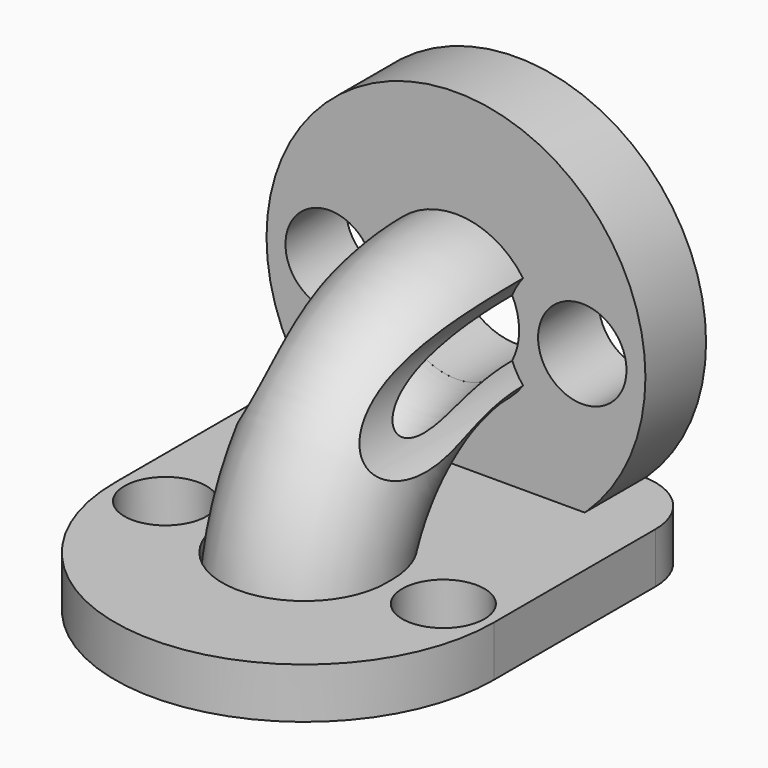
from build123d import *

# Parameters (mm, degrees)
F0_R      = 7.5
F0_R_2    = 2.5
F1_DEPTH  = 3
F2_R      = 1.75
F3_DEPTH  = 25
F5_R      = 3.25
F5_R_2    = 2.5
F8_DEPTH  = 2
F9_R      = 2.5
F10_R     = 1.625
F11_DEPTH = 2
F12_R     = 3
F13_DEPTH = 25


with BuildPart() as f1:
    # F0 (on Front) → F1 (new body)
    with BuildSketch(Plane.XZ):
        Circle(F0_R)
        Circle(F0_R_2, mode=Mode.SUBTRACT)
    extrude(amount=-F1_DEPTH)

    # F2 (on face) → F3 (cut)
    with BuildSketch(Plane.XZ):
        with Locations((5, 0)):
            Circle(F2_R)
        with Locations((-5, 0)):
            Circle(F2_R)
    extrude(amount=-F3_DEPTH, mode=Mode.SUBTRACT)


with BuildPart() as f6:
    # F6: sweep along a path in F4
    with BuildLine(Plane.YZ) as f6_path:
        ThreePointArc((0, 0), (-5.3033008589, -2.1966991411), (-7.5, -7.5))
    # F5 (on Front) → F6 (sweep)
    with BuildSketch(Plane.XZ):
        Circle(F5_R)
        Circle(F5_R_2, mode=Mode.SUBTRACT)
    sweep(path=f6_path.line)

    # F12 (on face) → F13 (cut)
    with BuildSketch(Plane.XZ):
        with Locations((-5, 0)):
            Circle(F12_R)
        with Locations((5, 0)):
            Circle(F12_R)
    extrude(amount=F13_DEPTH, mode=Mode.SUBTRACT)


with BuildPart() as f8:
    # F7 (on face) → F8 (new body)
    with BuildSketch(Plane(origin=(0, 0, -7.5), x_dir=(1, 0, 0), z_dir=(0, 0, -1))):
        with BuildLine():
            ThreePointArc((-3.25, 7.5), (0, 10.75), (3.25, 7.5))
            Line((3.25, 7.5), (7.5, 7.5))
            ThreePointArc((7.5, 7.5), (0, 15), (-7.5, 7.5))
            Line((-7.5, 7.5), (-3.25, 7.5))
        make_face()
        with BuildLine():
            Line((7.5, 7.5), (3.25, 7.5))
            ThreePointArc((3.25, 7.5), (0, 4.25), (-3.25, 7.5))
            Line((-3.25, 7.5), (-7.5, 7.5))
            ThreePointArc((-7.5, 7.5), (0, 0), (7.5, 7.5))
        make_face()
        with BuildLine():
            Line((7.5, -3), (7.5, 7.5))
            ThreePointArc((7.5, 7.5), (0, 0), (-7.5, 7.5))
            Line((-7.5, 7.5), (-7.5, -3))
            Line((-7.5, -3), (7.5, -3))
        make_face()
    extrude(amount=-F8_DEPTH)

    # F9
    f9_edges = [f8.edges().sort_by_distance(p)[0] for p in [
        (-7.5, 3, -6.5),
        (7.5, 3, -6.5),
    ]]
    fillet(f9_edges, radius=F9_R)

    # F10 (on face) → F11 (cut, through all)
    with BuildSketch(Plane(origin=(0, 0, -7.5), x_dir=(1, 0, 0), z_dir=(0, 0, -1))):
        with Locations((-5.5, 7.5)):
            Circle(F10_R)
        with Locations((5.5, 7.5)):
            Circle(F10_R)
    extrude(amount=-F11_DEPTH, mode=Mode.SUBTRACT)


solid = Compound([f1.part, f6.part, f8.part])
